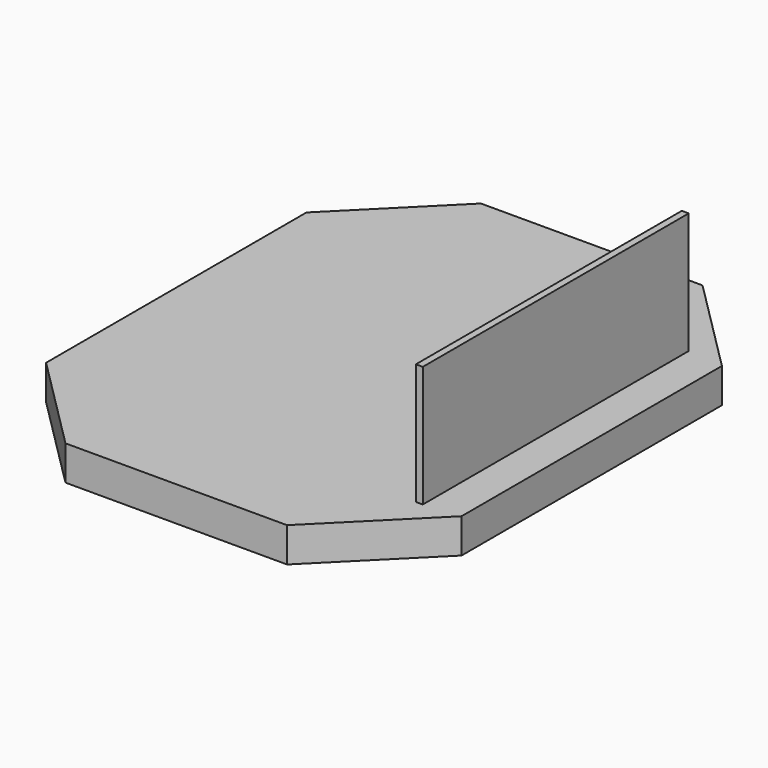
from build123d import *

# Parameters (mm, degrees)
F1_DEPTH = 5
F3_DEPTH = 17.5


with BuildPart() as f1:
    # F0 (on Top) → F1 (new body)
    with BuildSketch(Plane.XY):
        Polygon((-16, -37.5), (16, -37.5), (30, -23.5), (30, 23.5), (16, 37.5), (-16, 37.5), (-30, 23.5), (-30, -23.5), align=None)
    extrude(amount=F1_DEPTH)

    # F2 (on face) → F3 (join)
    with BuildSketch(Plane.XY.offset(5)):
        Polygon((24.8, -24), (24.8, 0), (24.8, 24), (23.8, 24), (23.8, -24), align=None)
    extrude(amount=F3_DEPTH)


solid = f1.part
